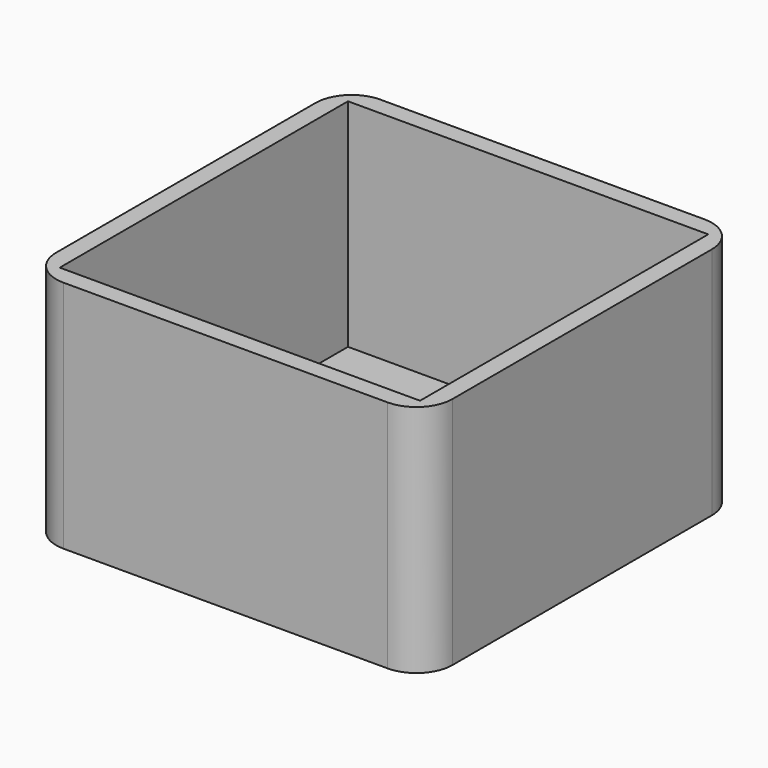
from build123d import *

# Parameters (mm, degrees)
F0_W     = 22
F0_H     = 22
F0_W_2   = 20
F0_H_2   = 20
F1_DEPTH = 12
F2_DEPTH = 1
F3_R     = 2


with BuildPart() as f1:
    # F0 (on Top) → F1 (new body)
    with BuildSketch(Plane.XY):
        Rectangle(F0_W, F0_H)
        Rectangle(F0_W_2, F0_H_2, mode=Mode.SUBTRACT)
    extrude(amount=F1_DEPTH)

    # F0 (on Top) → F2 (join)
    with BuildSketch(Plane.XY):
        Rectangle(F0_W, F0_H)
        Rectangle(F0_W_2, F0_H_2, mode=Mode.SUBTRACT)
        Rectangle(F0_W_2, F0_H_2)
    extrude(amount=-F2_DEPTH)

    # F3
    f3_edges = [f1.edges().sort_by_distance(p)[0] for p in [
        (-11, 11, 5.5),
        (-11, -11, 5.5),
        (11, 11, 5.5),
        (11, -11, 5.5),
    ]]
    fillet(f3_edges, radius=F3_R)


solid = f1.part
